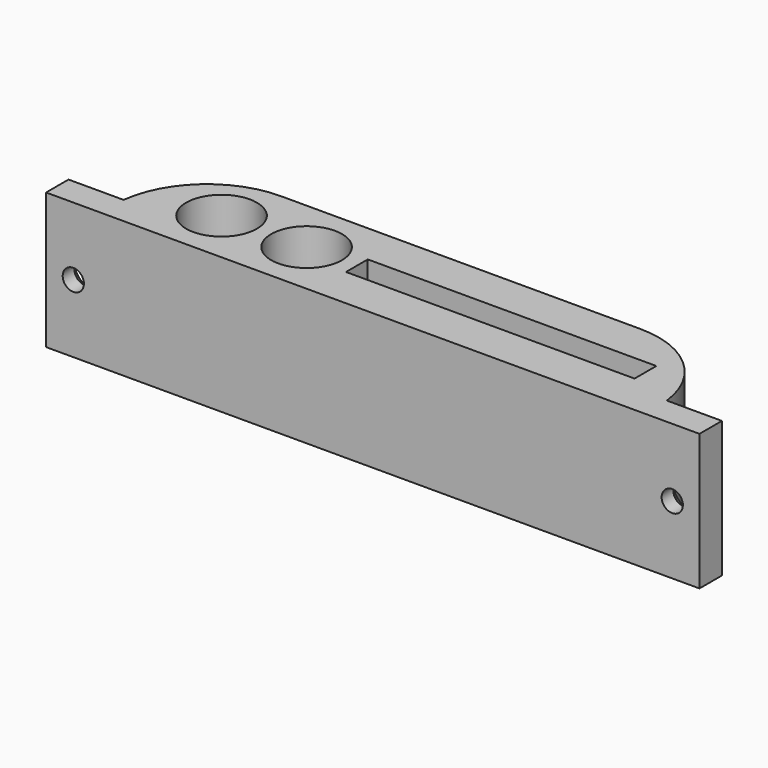
from build123d import *

# Parameters (mm, degrees)
F0_R           = 6.5
F0_W           = 53
F0_H           = 5
F1_DEPTH       = 25
F3_D           = 3.9
F3_CSINK_D     = 8.2
F3_CSINK_ANGLE = 82


with BuildPart() as f1:
    # F0 (on Top) → F1 (new body)
    with BuildSketch(Plane.XY):
        with BuildLine():
            Line((-67.463674, 0), (52.536326, 0))
            Line((52.536326, 0), (52.536326, 3.151407))
            Line((52.536326, 3.151407), (52.536326, 5.151407))
            Line((52.536326, 5.151407), (42.418269, 5.151407))
            ThreePointArc((42.418269, 5.151407), (36.827916, 15.859672), (25.536326, 20.151407))
            Line((25.536326, 20.151407), (-40.463674, 20.151407))
            ThreePointArc((-40.463674, 20.151407), (-51.755263, 15.859672), (-57.345617, 5.151407))
            Line((-57.345617, 5.151407), (-57.463674, 5.151407))
            Line((-57.463674, 5.151407), (-67.463674, 5.151407))
            Line((-67.463674, 5.151407), (-67.463674, 3.151407))
            Line((-67.463674, 3.151407), (-67.463674, 0))
        make_face()
        with Locations((-43.310199, 10.089857)):
            Circle(F0_R, mode=Mode.SUBTRACT)
        with Locations((-27.690393, 10.089857)):
            Circle(F0_R, mode=Mode.SUBTRACT)
        with Locations((8.040399, 10.089857)):
            Rectangle(F0_W, F0_H, mode=Mode.SUBTRACT)
        with BuildLine():
            Line((-67.463674, 0), (52.536326, 0))
            Line((52.536326, 0), (52.536326, 3.151407))
            Line((52.536326, 3.151407), (52.536326, 5.151407))
            Line((52.536326, 5.151407), (42.418269, 5.151407))
            ThreePointArc((42.418269, 5.151407), (36.827916, 15.859672), (25.536326, 20.151407))
            Line((25.536326, 20.151407), (-40.463674, 20.151407))
            ThreePointArc((-40.463674, 20.151407), (-51.755263, 15.859672), (-57.345617, 5.151407))
            Line((-57.345617, 5.151407), (-57.463674, 5.151407))
            Line((-57.463674, 5.151407), (-67.463674, 5.151407))
            Line((-67.463674, 5.151407), (-67.463674, 3.151407))
            Line((-67.463674, 3.151407), (-67.463674, 0))
        make_face()
        with Locations((-43.310199, 10.089857)):
            Circle(F0_R, mode=Mode.SUBTRACT)
        with Locations((-27.690393, 10.089857)):
            Circle(F0_R, mode=Mode.SUBTRACT)
        with Locations((8.040399, 10.089857)):
            Rectangle(F0_W, F0_H, mode=Mode.SUBTRACT)
    extrude(amount=F1_DEPTH)

    # F3 (through all)
    with Locations(Plane(origin=(0, 5.151407, 0), x_dir=(-1, 0, 0), z_dir=(0, 1, 0))):
        with Locations((62.463674, 12.5), (-47.536326, 12.5)):
            CounterSinkHole(F3_D / 2, F3_CSINK_D / 2, counter_sink_angle=F3_CSINK_ANGLE)


solid = f1.part
